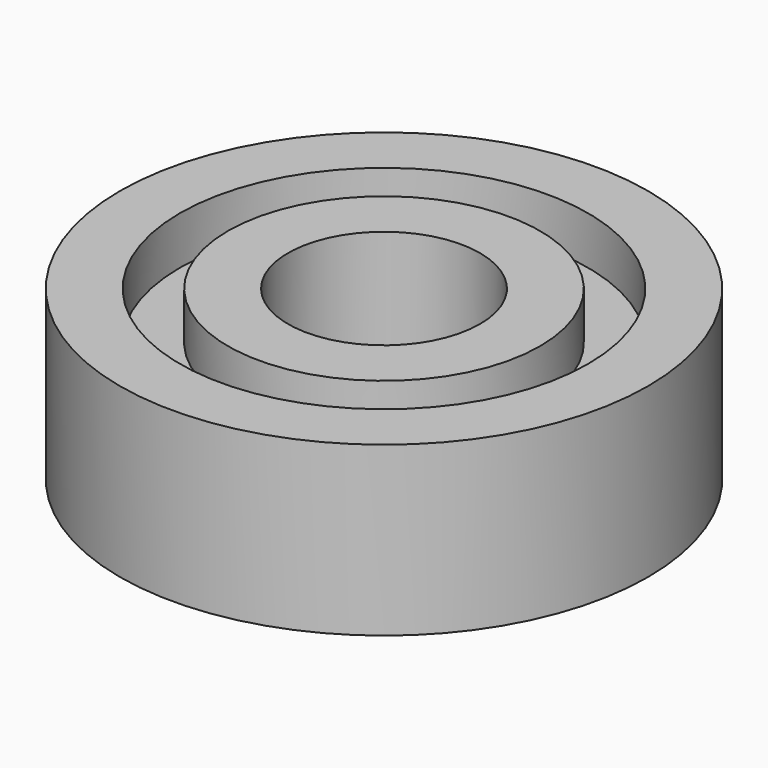
from build123d import *

# Parameters (mm, degrees)
CYLINDER010_R     = 4
CYLINDER010_DEPTH = 9
CYLINDER009_R     = 6.5
CYLINDER009_DEPTH = 7
CYLINDER012_R     = 5.5
CYLINDER012_DEPTH = 7
CYLINDER011_R     = 9
CYLINDER011_DEPTH = 4
CYLINDER008_R     = 8.5
CYLINDER008_DEPTH = 8
CYLINDER007_R     = 11
CYLINDER007_DEPTH = 7


with BuildPart() as cilindro010:
    # Cylinder010 → Cylinder010 (new body)
    with BuildSketch(Plane.XY.offset(-1)):
        Circle(CYLINDER010_R)
    extrude(amount=CYLINDER010_DEPTH)


with BuildPart() as cut003:
    # Cylinder009 → Cylinder009 (new body)
    with BuildSketch(Plane.XY):
        Circle(CYLINDER009_R)
    extrude(amount=CYLINDER009_DEPTH)

    # Cut003: cut Cilindro010
    add(cilindro010.part, mode=Mode.SUBTRACT)


with BuildPart() as cilindro012:
    # Cylinder012 → Cylinder012 (new body)
    with BuildSketch(Plane.XY):
        Circle(CYLINDER012_R)
    extrude(amount=CYLINDER012_DEPTH)


with BuildPart() as cut004:
    # Cylinder011 → Cylinder011 (new body)
    with BuildSketch(Plane.XY.offset(1)):
        Circle(CYLINDER011_R)
    extrude(amount=CYLINDER011_DEPTH)

    # Cut004: cut Cilindro012
    add(cilindro012.part, mode=Mode.SUBTRACT)


with BuildPart() as cilindro008:
    # Cylinder008 → Cylinder008 (new body)
    with BuildSketch(Plane.XY.offset(-1)):
        Circle(CYLINDER008_R)
    extrude(amount=CYLINDER008_DEPTH)


with BuildPart() as f_608zz:
    # Cylinder007 → Cylinder007 (new body)
    with BuildSketch(Plane.XY):
        Circle(CYLINDER007_R)
    extrude(amount=CYLINDER007_DEPTH)

    # Cut002: cut Cilindro008
    add(cilindro008.part, mode=Mode.SUBTRACT)

    # Fusion003: union Cut003, Cut004
    add(cut003.part)
    add(cut004.part)


solid = f_608zz.part
